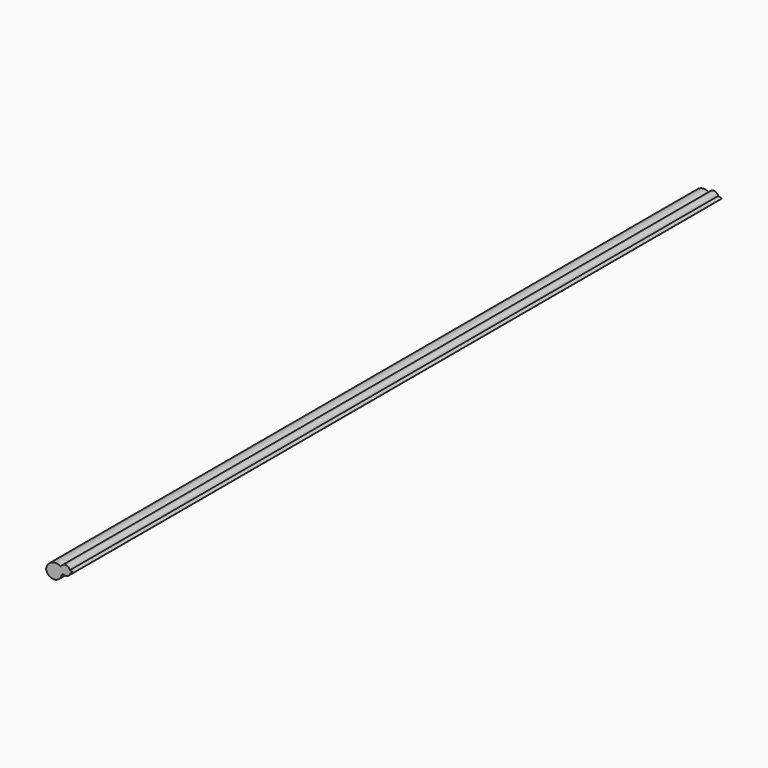
from build123d import *

# Parameters (mm, degrees)
F1_DEPTH = 1015.238


with BuildPart() as f1:
    # F0 (on Front) → F1 (new body)
    with BuildSketch(Plane.XZ):
        with BuildLine():
            ThreePointArc((21.731453, 14.183698), (21.86101, 14.894934), (21.904404, 15.61657))
            ThreePointArc((21.904404, 15.61657), (21.808806, 16.685328), (21.525048, 17.720154))
            ThreePointArc((21.525048, 17.720154), (15.925672, 21.638434), (10.270544, 17.801056))
            ThreePointArc((10.270544, 17.801056), (10.052402, 14.107915), (12.034586, 10.984165))
            ThreePointArc((12.034586, 10.984165), (17.769319, 9.897811), (21.731453, 14.183698))
        make_face()
        with BuildLine():
            ThreePointArc((21.525048, 17.720154), (21.808806, 16.685328), (21.904404, 15.61657))
            ThreePointArc((21.904404, 15.61657), (21.86101, 14.894934), (21.731453, 14.183698))
            Line((21.731453, 14.183698), (26.11622, 16.414011))
            Line((26.11622, 16.414011), (21.525048, 17.720154))
        make_face()
        with BuildLine():
            ThreePointArc((12.034586, 10.984165), (10.052402, 14.107915), (10.270544, 17.801056))
            ThreePointArc((10.270544, 17.801056), (1.703743, 19.709111), (-5.91436, 15.350756))
            ThreePointArc((-5.91436, 15.350756), (-7.55144, 12.448565), (-8.439593, 9.237035))
            ThreePointArc((-8.439593, 9.237035), (-7.460714, 6.302931), (-5.624434, 3.813905))
            ThreePointArc((-5.624434, 3.813905), (-0.5193, 1.13624), (5.212117, 1.75522))
            ThreePointArc((5.212117, 1.75522), (9.112815, 4.742598), (11.097733, 9.237035))
            ThreePointArc((11.097733, 9.237035), (12.135507, 9.805302), (12.034586, 10.984165))
        make_face()
    extrude(amount=F1_DEPTH)


solid = f1.part
